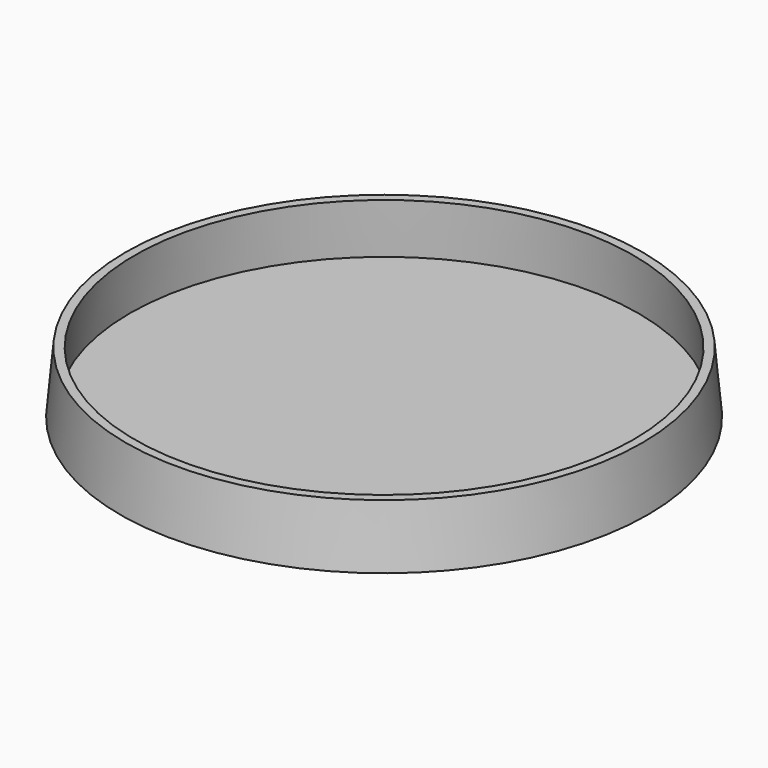
from build123d import *

# Parameters (mm, degrees)
F8_R      = 75.25
F9_DEPTH  = 17.5
F9_TAPER  = 5.3051096062
F10_T     = -2.5
F11_R     = 72.5071022153
F12_DEPTH = 2.5
F13_DEPTH = 2.5


with BuildPart() as f9:
    # F8 (on Top) → F9 (new body)
    with BuildSketch(Plane.XY):
        Circle(F8_R)
    extrude(amount=F9_DEPTH, taper=F9_TAPER)

    # F10
    f10_openings = [f9.faces().sort_by_distance(p)[0] for p in [
        (0, 0, 17.5),
    ]]
    offset(amount=F10_T, openings=f10_openings)

    # F11 (on face) → F12 (cut, through all)
    with BuildSketch(Plane.XY.offset(2.5)):
        Circle(F11_R)
    extrude(amount=-F12_DEPTH, mode=Mode.SUBTRACT)


with BuildPart() as f13:
    # F11 (on face) → F13 (new body, through all)
    with BuildSketch(Plane.XY.offset(2.5)):
        Circle(F11_R)
    extrude(amount=-F13_DEPTH)


solid = Compound([f9.part, f13.part])
